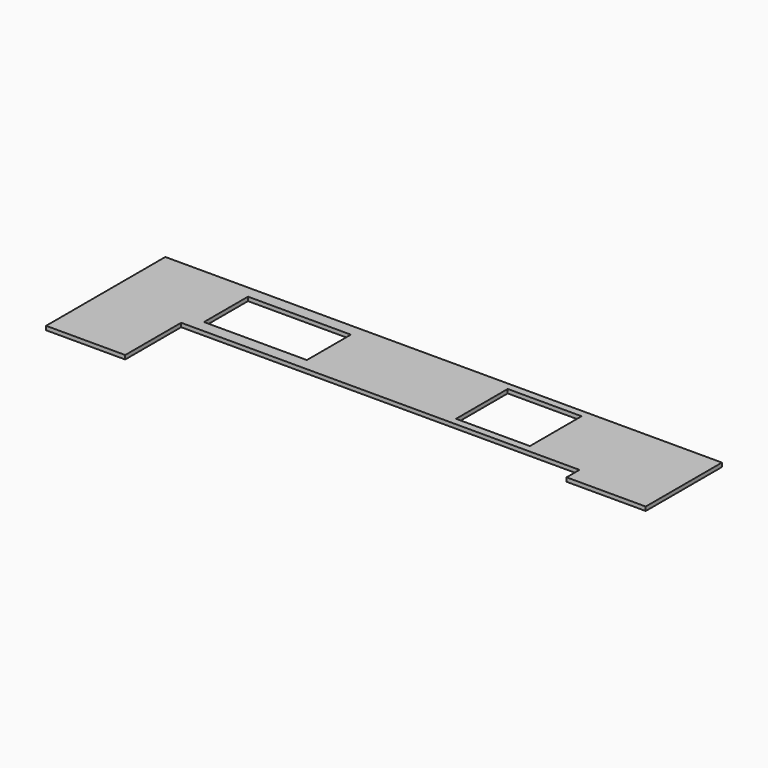
from build123d import *

# Parameters (mm, degrees)
F1_DEPTH = 30
F2_W     = 780
F2_H     = 417
F3_DEPTH = 30
F4_W     = 560
F4_H     = 490
F5_DEPTH = 30
F6_W     = 600
F6_H     = 630
F7_DEPTH = 30
F8_W     = 600
F8_H     = 1038
F9_DEPTH = 30


with BuildPart() as f1:
    # F0 (on Top) → F1 (new body)
    with BuildSketch(Plane.XY):
        Polygon((0, 1760), (0, 0), (600, 0), (600, 1160), (3620, 1160), (3620, 0), (4220, 0), (4220, 1760), align=None)
    extrude(amount=F1_DEPTH)

    # F2 (on face) → F3 (cut, through all)
    with BuildSketch(Plane.XY.offset(30)):
        with Locations((1090, 1460)):
            Rectangle(F2_W, F2_H)
    extrude(amount=-F3_DEPTH, mode=Mode.SUBTRACT)

    # F4 (on face) → F5 (cut, through all)
    with BuildSketch(Plane.XY.offset(30)):
        with Locations((2920, 1460)):
            Rectangle(F4_W, F4_H)
    extrude(amount=-F5_DEPTH, mode=Mode.SUBTRACT)

    # F6 (on face) → F7 (cut, through all)
    with BuildSketch(Plane.XY.offset(30)):
        with Locations((300, 315)):
            Rectangle(F6_W, F6_H)
    extrude(amount=-F7_DEPTH, mode=Mode.SUBTRACT)

    # F8 (on face) → F9 (cut, through all)
    with BuildSketch(Plane.XY.offset(30)):
        with Locations((3920, 519)):
            Rectangle(F8_W, F8_H)
    extrude(amount=-F9_DEPTH, mode=Mode.SUBTRACT)


solid = f1.part
